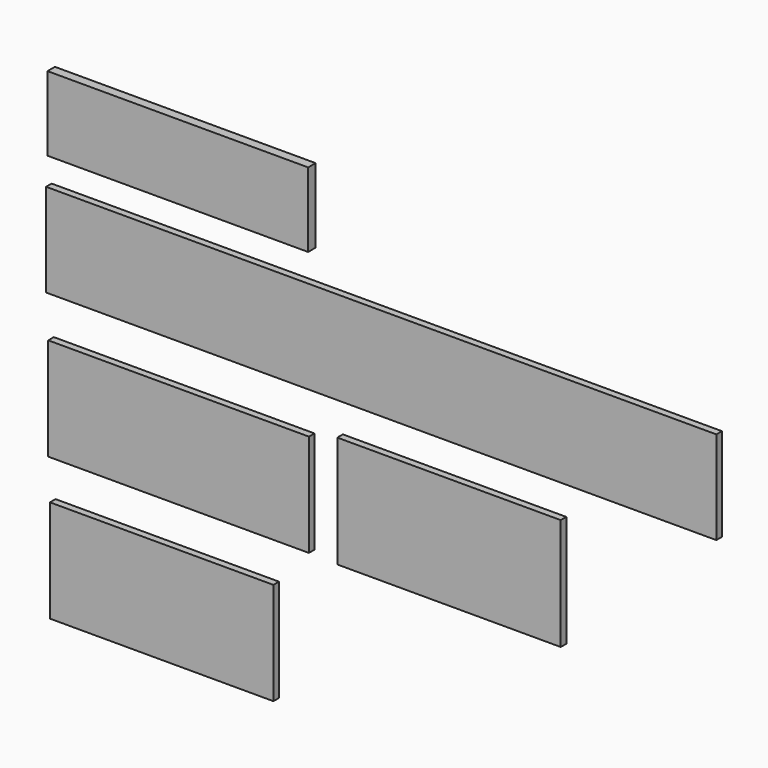
from build123d import *

# Parameters (mm, degrees)
F0_W     = 1828.8
F0_H     = 254
F1_DEPTH = 19.05
F2_W     = 711.2
F2_H     = 279.4
F3_DEPTH = 19.05
F4_W     = 609.6
F4_H     = 304.8
F5_DEPTH = 19.05
F6_W     = 609.6
F6_H     = 279.4
F7_DEPTH = 19.05
F8_W     = 711.2
F8_H     = 203.2
F9_DEPTH = 25.4


with BuildPart() as f1:
    # F0 (on Front) → F1 (new body)
    with BuildSketch(Plane.XZ):
        with Locations((332.231999, 127)):
            Rectangle(F0_W, F0_H)
    extrude(amount=F1_DEPTH)


with BuildPart() as f3:
    # F2 (on Front) → F3 (new body)
    with BuildSketch(Plane.XZ):
        with Locations((-220.671342, -252.617526)):
            Rectangle(F2_W, F2_H)
    extrude(amount=F3_DEPTH)


with BuildPart() as f5:
    # F4 (on Front) → F5 (new body)
    with BuildSketch(Plane.XZ):
        with Locations((517.178617, -242.455962)):
            Rectangle(F4_W, F4_H)
    extrude(amount=F5_DEPTH)


with BuildPart() as f7:
    # F6 (on Front) → F7 (new body)
    with BuildSketch(Plane.XZ):
        with Locations((-266.742038, -640.216818)):
            Rectangle(F6_W, F6_H)
    extrude(amount=F7_DEPTH)


with BuildPart() as f9:
    # F8 (on Front) → F9 (new body)
    with BuildSketch(Plane.XZ):
        with Locations((-217.6686, 435.733072)):
            Rectangle(F8_W, F8_H)
    extrude(amount=F9_DEPTH)


solid = Compound([f1.part, f3.part, f5.part, f7.part, f9.part])
